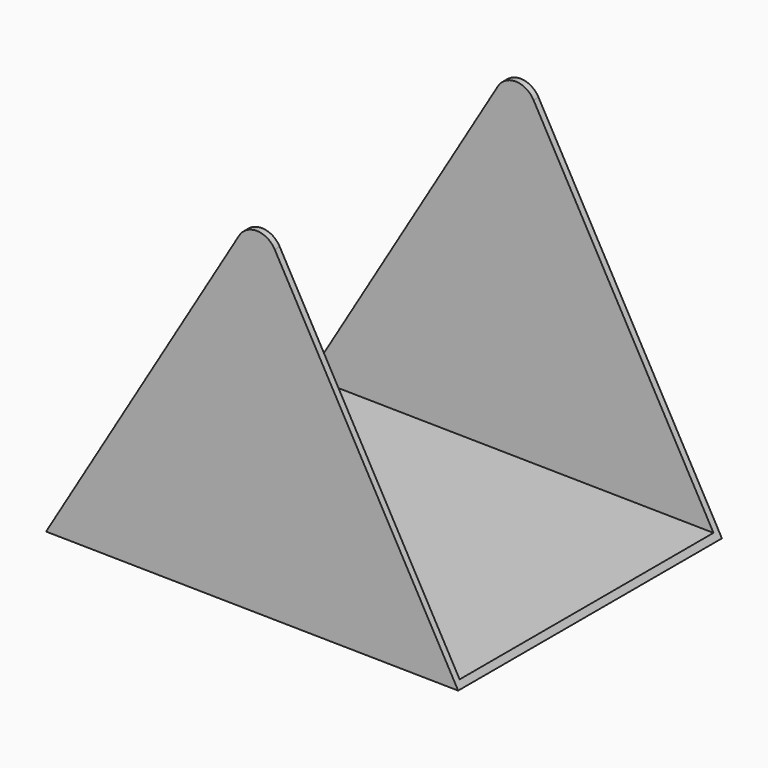
from build123d import *

# Parameters (mm, degrees)
F1_DEPTH = 160
F4_DEPTH = 184


with BuildPart() as f1:
    # F0 (on Front) → F1 (new body)
    with BuildSketch(Plane.XZ):
        with BuildLine():
            Line((40.9332527794, -52.7619718481), (-48.0891487754, 106.7585873007))
            ThreePointArc((-48.0891487754, 106.7585873007), (-56.6755499732, 111.8843764566), (-65.4078141956, 107.0112294702))
            Line((-65.4078141956, 107.0112294702), (-159.0454700669, -49.8447113565))
            Line((-159.0454700669, -49.8447113565), (40.9332527794, -52.7619718481))
        make_face()
    extrude(amount=F1_DEPTH)

    # F3 (on offset) → F4 (cut)
    with BuildSketch(Plane(origin=(-0.7170523297, 0, -49.1540640703), x_dir=(0.9998936142, 0, -0.0145863025), z_dir=(-0.0145863025, 0, -0.9998936142))):
        Polygon((-161.2010151148, 3), (-155.3014998566, 3), (38.6985001434, 3), (52.8733432293, 3), (52.8733432293, 157), (38.6985001434, 157), (-155.3014998566, 157), (-161.2010151148, 157), align=None)
    extrude(amount=-F4_DEPTH, mode=Mode.SUBTRACT)


solid = f1.part
